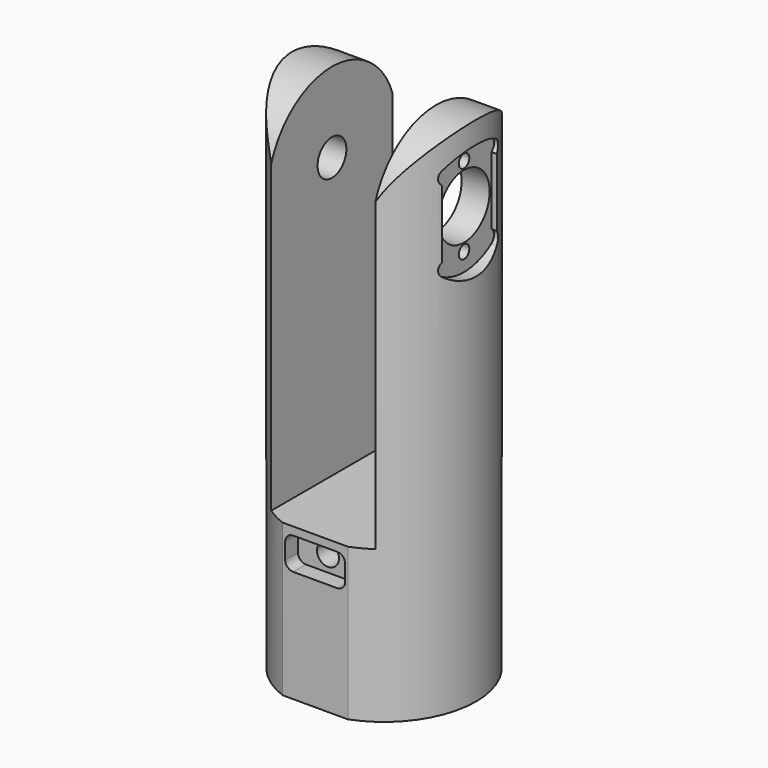
from build123d import *

# Parameters (mm, degrees)
F1_DEPTH  = 128
F3_W      = 26
F3_H      = 46
F4_DEPTH  = 90
F6_DEPTH  = 46.001
F8_DEPTH  = 3
F10_D     = 3.3
F10_DEPTH = 20
F10_TIP   = 0.9914200214
F11_R     = 8
F12_DEPTH = 25
F13_R     = 4.5
F14_DEPTH = 10.0010001
F15_R     = 20.15
F16_DEPTH = 26
F18_DEPTH = 4
F20_D     = 5.5
F20_DEPTH = 10
F20_TIP   = 1.6523667023
F22_DEPTH = 4
F24_D     = 5.5
F24_DEPTH = 10
F24_TIP   = 1.6523667023


with BuildPart() as f1:
    # F0 (on Top) → F1 (new body)
    with BuildSketch(Plane.XY):
        with BuildLine():
            Line((8.1700673192, 21.5), (-8.1700673192, 21.5))
            ThreePointArc((-8.1700673192, 21.5), (-23, 0), (-8.1700673192, -21.5))
            Line((-8.1700673192, -21.5), (8.1700673192, -21.5))
            ThreePointArc((8.1700673192, -21.5), (23, 0), (8.1700673192, 21.5))
        make_face()
    extrude(amount=F1_DEPTH)

    # F3 (on face) → F4 (cut)
    with BuildSketch(Plane.XY.offset(128)):
        Rectangle(F3_W, F3_H)
    extrude(amount=-F4_DEPTH, mode=Mode.SUBTRACT)

    # F5 (on offset) → F6 (cut, through all)
    with BuildSketch(Plane.YZ.offset(23)):
        with BuildLine():
            ThreePointArc((-19.9933908829, 108.5141215848), (-0.0190112138, 127.9999909643), (19.9923773451, 108.5521305014))
            Line((19.9923773451, 108.5521305014), (24.1833440959, 131.3719953258))
            Line((24.1833440959, 131.3719953258), (-19.9933908829, 131.3719953258))
            Line((-19.9933908829, 131.3719953258), (-19.9933908829, 108.5141215848))
        make_face()
    extrude(amount=-F6_DEPTH, mode=Mode.SUBTRACT)

    # F7 (on offset) → F8 (cut)
    with BuildSketch(Plane.YZ.offset(23)):
        with BuildLine():
            ThreePointArc((-8.55, 99.5196213389), (-9.3706896552, 97.9043111178), (-8.55, 96.2890008966))
            ThreePointArc((-8.55, 96.2890008966), (0, 93.5), (8.55, 96.2890008966))
            ThreePointArc((8.55, 96.2890008966), (9.3706896552, 97.9043111178), (8.55, 99.5196213389))
            Line((8.55, 99.5196213389), (8.55, 116.4803786611))
            ThreePointArc((8.55, 116.4803786611), (9.3706896552, 118.0956888822), (8.55, 119.7109991034))
            ThreePointArc((8.55, 119.7109991034), (0, 122.5), (-8.55, 119.7109991034))
            ThreePointArc((-8.55, 119.7109991034), (-9.3706896552, 118.0956888822), (-8.55, 116.4803786611))
            Line((-8.55, 116.4803786611), (-8.55, 99.5196213389))
        make_face()
    extrude(amount=-F8_DEPTH, mode=Mode.SUBTRACT)

    # F10
    with Locations(Plane.YZ.offset(20)):
        with Locations((0, 118), (0, 98)):
            Hole(F10_D / 2, depth=F10_DEPTH)
            with Locations((0, 0, -(F10_DEPTH + F10_TIP / 2))):  # 118° drill point
                Cone(0, F10_D / 2, F10_TIP, mode=Mode.SUBTRACT)

    # F11 (on face) → F12 (cut)
    with BuildSketch(Plane.YZ.offset(20)):
        with Locations((0, 108)):
            Circle(F11_R)
    extrude(amount=-F12_DEPTH, mode=Mode.SUBTRACT)

    # F13 (on face) → F14 (cut, through all)
    with BuildSketch(Plane.YZ.offset(-13)):
        with Locations((0, 108)):
            Circle(F13_R)
    extrude(amount=-F14_DEPTH, mode=Mode.SUBTRACT)

    # F15 (on face) → F16 (cut)
    with BuildSketch(Plane(origin=(0, 0, 0), x_dir=(1, 0, 0), z_dir=(0, 0, -1))):
        Circle(F15_R)
    extrude(amount=-F16_DEPTH, mode=Mode.SUBTRACT)

    # F17 (on face) → F18 (cut)
    with BuildSketch(Plane.XZ.offset(21.5)):
        with BuildLine():
            Line((5.5, 36), (-5.5, 36))
            ThreePointArc((-5.5, 36), (-6.9142135624, 35.4142135624), (-7.5, 34))
            Line((-7.5, 34), (-7.5, 30))
            ThreePointArc((-7.5, 30), (-6.9142135624, 28.5857864376), (-5.5, 28))
            Line((-5.5, 28), (5.5, 28))
            ThreePointArc((5.5, 28), (6.9142135624, 28.5857864376), (7.5, 30))
            Line((7.5, 30), (7.5, 34))
            ThreePointArc((7.5, 34), (6.9142135624, 35.4142135624), (5.5, 36))
        make_face()
    extrude(amount=-F18_DEPTH, mode=Mode.SUBTRACT)

    # F20
    with Locations(Plane.XZ.offset(17.5)):
        with Locations((0, 32)):
            Hole(F20_D / 2, depth=F20_DEPTH)
            with Locations((0, 0, -(F20_DEPTH + F20_TIP / 2))):  # 118° drill point
                Cone(0, F20_D / 2, F20_TIP, mode=Mode.SUBTRACT)

    # F21 (on face) → F22 (cut)
    with BuildSketch(Plane(origin=(0, 21.5, 0), x_dir=(-1, 0, 0), z_dir=(0, 1, 0))):
        with BuildLine():
            Line((5.5, 36), (-5.5, 36))
            ThreePointArc((-5.5, 36), (-6.9142135624, 35.4142135624), (-7.5, 34))
            Line((-7.5, 34), (-7.5, 30))
            ThreePointArc((-7.5, 30), (-6.9142135624, 28.5857864376), (-5.5, 28))
            Line((-5.5, 28), (5.5, 28))
            ThreePointArc((5.5, 28), (6.9142135624, 28.5857864376), (7.5, 30))
            Line((7.5, 30), (7.5, 34))
            ThreePointArc((7.5, 34), (6.9142135624, 35.4142135624), (5.5, 36))
        make_face()
    extrude(amount=-F22_DEPTH, mode=Mode.SUBTRACT)

    # F24
    with Locations(Plane(origin=(0, 17.5, 0), x_dir=(-1, 0, 0), z_dir=(0, 1, 0))):
        with Locations((0, 32)):
            Hole(F24_D / 2, depth=F24_DEPTH)
            with Locations((0, 0, -(F24_DEPTH + F24_TIP / 2))):  # 118° drill point
                Cone(0, F24_D / 2, F24_TIP, mode=Mode.SUBTRACT)


solid = f1.part
